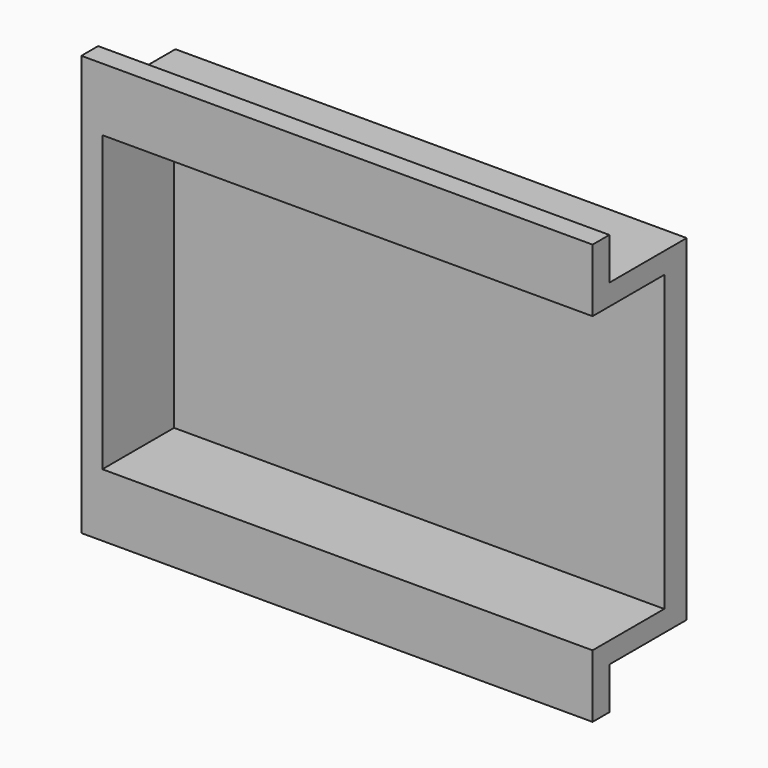
from build123d import *

# Parameters (mm, degrees)
F0_W     = 175
F0_H     = 105
F1_DEPTH = 10
F2_DEPTH = 42
F3_W     = 182.5
F3_H     = 15
F4_DEPTH = 7.5


with BuildPart() as f1:
    # F0 (on Front) → F1 (new body)
    with BuildSketch(Plane.XZ):
        Rectangle(F0_W, F0_H)
    extrude(amount=F1_DEPTH)

    # F0 (on Front) → F2 (join)
    with BuildSketch(Plane.XZ):
        Polygon((-87.5, 52.5), (87.5, 52.5), (87.5, 60), (-95, 60), (-95, -60), (87.5, -60), (87.5, -52.5), (-87.5, -52.5), align=None)
    extrude(amount=F2_DEPTH)

    # F3 (on face) → F4 (join)
    with BuildSketch(Plane.XZ.offset(42)):
        with Locations((-3.75, 67.5)):
            Rectangle(F3_W, F3_H)
        with Locations((-3.75, -67.5)):
            Rectangle(F3_W, F3_H)
    extrude(amount=-F4_DEPTH)


solid = f1.part
